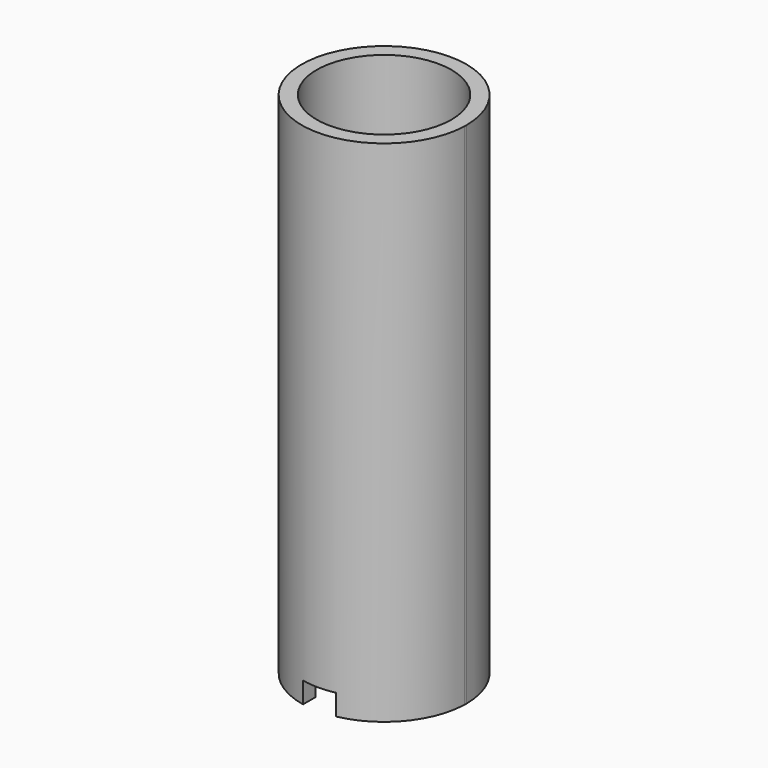
from build123d import *

# Parameters (mm, degrees)
F2_DEPTH = 170
F3_R     = 22.5
F4_DEPTH = 170
F6_DEPTH = 7


with BuildPart() as f2:
    # F1 (on face) → F2 (new body)
    with BuildSketch(Plane.XY):
        with BuildLine():
            ThreePointArc((27.4881675578, -0.8066252621), (27.4970417303, -0.4033560215), (27.5, 0))
            ThreePointArc((27.5, 0), (19.2877918034, 19.6018133689), (-0.4440790799, 27.4964141984))
            Line((-0.4440790799, 27.4964141984), (-0.4440790799, -0.5180921289))
            Line((-0.4440790799, -0.5180921289), (27.4881675578, -0.8066252621))
        make_face()
        with BuildLine():
            Line((-0.4440790799, -0.5180921289), (-0.4440790799, 27.4964141984))
            ThreePointArc((-0.4440790799, 27.4964141984), (-19.5732263839, -19.3168012084), (27.4881675578, -0.8066252621))
            Line((27.4881675578, -0.8066252621), (-0.4440790799, -0.5180921289))
        make_face()
    extrude(amount=F2_DEPTH)

    # F3 (on face) → F4 (cut)
    with BuildSketch(Plane.XY.offset(170)):
        Circle(F3_R)
    extrude(amount=-F4_DEPTH, mode=Mode.SUBTRACT)

    # F5 (on face) → F6 (cut)
    with BuildSketch(Plane(origin=(0, 0, 0), x_dir=(1, 0, 0), z_dir=(0, 0, -1))):
        with BuildLine():
            ThreePointArc((-5.5, 21.8174242293), (0, 22.5), (5.5, 21.8174242293))
            Line((5.5, 21.8174242293), (5.5, 26.9443871706))
            ThreePointArc((5.5, 26.9443871706), (2.7639964551, 27.3607442076), (0, 27.5))
            ThreePointArc((0, 27.5), (-2.7639964551, 27.3607442076), (-5.5, 26.9443871706))
            Line((-5.5, 26.9443871706), (-5.5, 21.8174242293))
        make_face()
    extrude(amount=-F6_DEPTH, mode=Mode.SUBTRACT)


solid = f2.part
